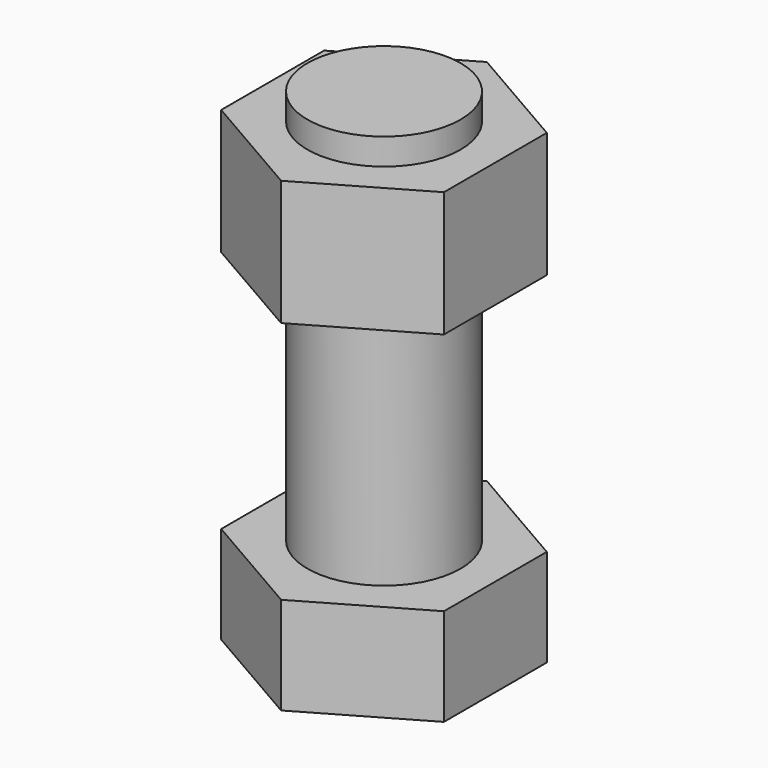
from build123d import *

# Parameters (mm, degrees)
F1_DEPTH  = 14
F2_R      = 11
F3_DEPTH  = 35
F4_R      = 11
F5_DEPTH  = 18
F3_FACE_R = 11
F6_DEPTH  = 21.8


with BuildPart() as f1:
    # F0 (on Top) → F1 (new body)
    with BuildSketch(Plane.XY):
        Polygon((16, -9.237604), (16, 9.237604), (0, 18.475209), (-16, 9.237604), (-16, -9.237604), (0, -18.475209), align=None)
    extrude(amount=F1_DEPTH)

    # F2 (on face) → F3 (join)
    with BuildSketch(Plane.XY.offset(14)):
        Circle(F2_R)
    extrude(amount=F3_DEPTH)


with BuildPart() as f5:
    # F4 (on face) → F5 (new body)
    with BuildSketch(Plane.XY.offset(49)):
        Polygon((16, -9.237604), (16, 9.237604), (0, 18.475209), (-16, 9.237604), (-16, -9.237604), (0, -18.475209), align=None)
        Circle(F4_R, mode=Mode.SUBTRACT)
    extrude(amount=F5_DEPTH)


with BuildPart() as f6:
    # F3_face (on face) → F6 (new body)
    with BuildSketch(Plane.XY.offset(49)):
        Circle(F3_FACE_R)
    extrude(amount=F6_DEPTH)


solid = Compound([f1.part, f5.part, f6.part])
